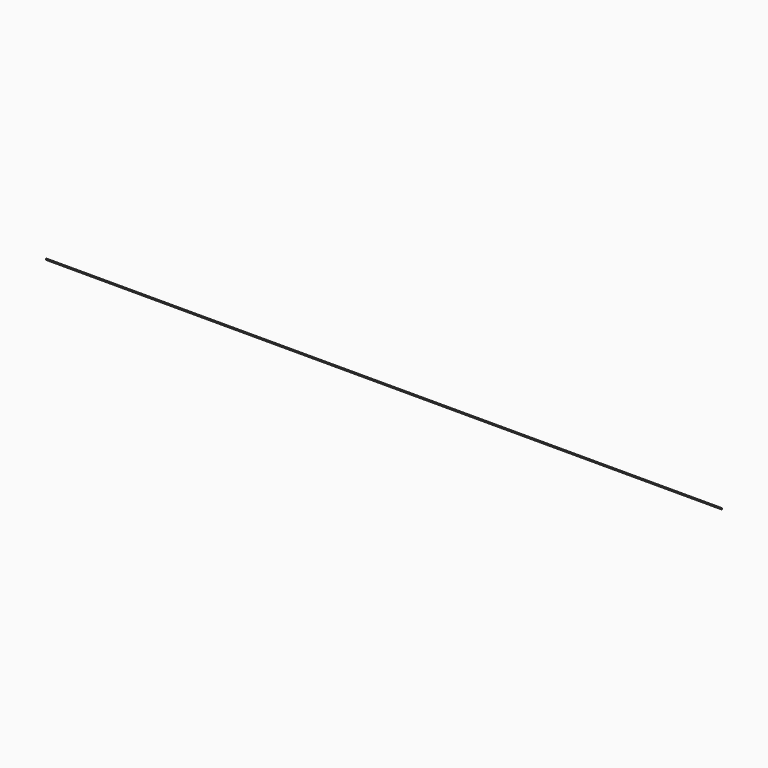
from build123d import *

# Parameters (mm, degrees)
F0_W     = 5700
F0_H     = 10
F1_DEPTH = 2
F2_R     = 3
F3_DEPTH = 25


with BuildPart() as f1:
    # F0 (on Front) → F1 (new body)
    with BuildSketch(Plane.XZ):
        with Locations((2850, 5)):
            Rectangle(F0_W, F0_H)
    extrude(amount=F1_DEPTH)

    # F2 (on face) → F3 (cut)
    with BuildSketch(Plane.XZ.offset(2)):
        with Locations((287.5, 5.61475)):
            Circle(F2_R)
        with Locations((687.5, 5.61475)):
            Circle(F2_R)
        with Locations((962.5, 5.61475)):
            Circle(F2_R)
        with Locations((1362.5, 5.61475)):
            Circle(F2_R)
        with Locations((1637.5, 5.61475)):
            Circle(F2_R)
        with Locations((2037.5, 5.61475)):
            Circle(F2_R)
        with Locations((2312.5, 5.61475)):
            Circle(F2_R)
        with Locations((2712.5, 5.61475)):
            Circle(F2_R)
        with Locations((2987.5, 5.61475)):
            Circle(F2_R)
        with Locations((3387.5, 5.61475)):
            Circle(F2_R)
        with Locations((3662.5, 5.61475)):
            Circle(F2_R)
        with Locations((4062.5, 5.61475)):
            Circle(F2_R)
        with Locations((4337.5, 5.61475)):
            Circle(F2_R)
        with Locations((4737.5, 5.61475)):
            Circle(F2_R)
        with Locations((5012.5, 5.61475)):
            Circle(F2_R)
        with Locations((5412.5, 5.61475)):
            Circle(F2_R)
    extrude(amount=-F3_DEPTH, mode=Mode.SUBTRACT)


solid = f1.part
